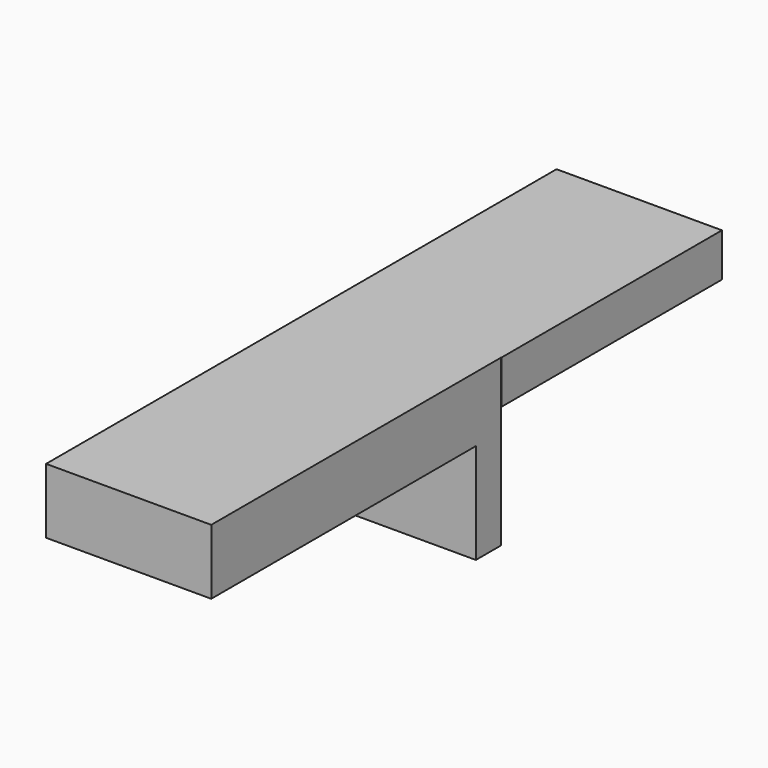
from build123d import *

# Parameters (mm, degrees)
F0_W     = 38.1
F0_H     = 10
F1_DEPTH = 63.5
F2_W     = 38.0510927618
F2_H     = 7.2934785858
F3_DEPTH = 38.1
F4_W     = 38.0510927618
F4_H     = 15
F5_DEPTH = 76.2


with BuildPart() as f1:
    # F0 (on Front) → F1 (new body)
    with BuildSketch(Plane.XZ):
        Rectangle(F0_W, F0_H)
    extrude(amount=-F1_DEPTH)

    # F2 (on face) → F3 (join)
    with BuildSketch(Plane.XY.offset(5)):
        with Locations((-0.0244536191, -3.6467392929)):
            Rectangle(F2_W, F2_H)
    extrude(amount=-F3_DEPTH)

    # F4 (on face) → F5 (join)
    with BuildSketch(Plane.XZ.offset(7.2934785858)):
        with Locations((-0.0244536191, -2.5)):
            Rectangle(F4_W, F4_H)
    extrude(amount=F5_DEPTH)


solid = f1.part
